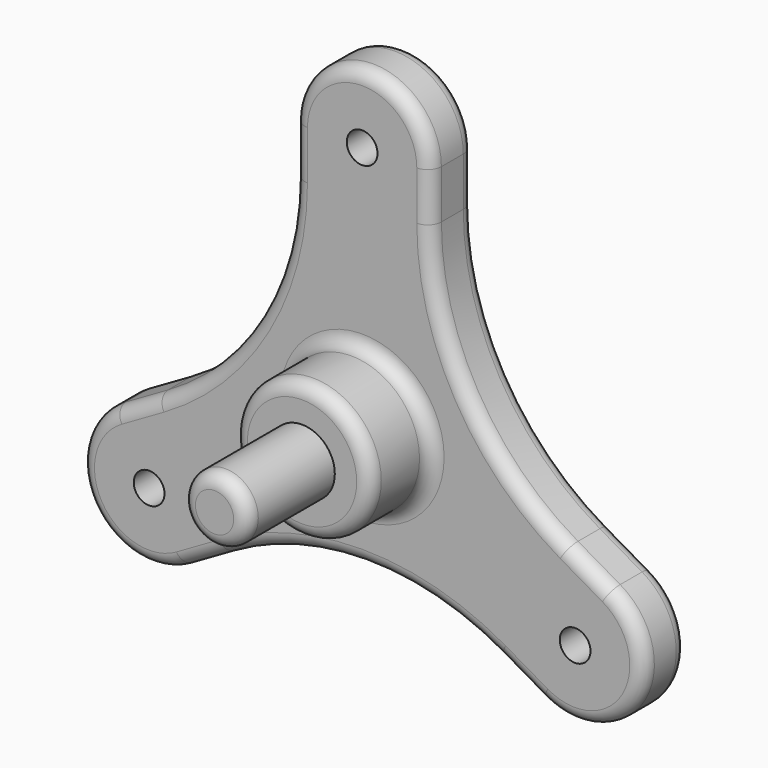
from build123d import *

# Parameters (mm, degrees)
F0_R     = 1.125
F1_DEPTH = 4
F2_R     = 20
F3_R     = 5
F4_DEPTH = 5.5
F5_R     = 1
F6_R     = 2.4
F7_DEPTH = 8
F8_R     = 1


with BuildPart() as f1:
    # F0 (on Front) → F1 (new body)
    with BuildSketch(Plane.XZ):
        with BuildLine():
            Line((5, 2.8867513459), (5, 18))
            ThreePointArc((5, 18), (0, 23), (-5, 18))
            Line((-5, 18), (-5, 2.8867513459))
            Line((-5, 2.8867513459), (-2.5, 4.3301270189))
            Line((-2.5, 4.3301270189), (0, 0))
            Line((0, 0), (2.5, 4.3301270189))
            Line((2.5, 4.3301270189), (5, 2.8867513459))
        make_face()
        with Locations((0, 18)):
            Circle(F0_R, mode=Mode.SUBTRACT)
        with BuildLine():
            Line((18.0884572681, -4.6698729811), (5, 2.8867513459))
            Line((5, 2.8867513459), (5, 0))
            Line((5, 0), (0, 0))
            Line((0, 0), (2.5, -4.3301270189))
            Line((2.5, -4.3301270189), (0, -5.7735026919))
            Line((0, -5.7735026919), (13.0884572681, -13.3301270189))
            ThreePointArc((13.0884572681, -13.3301270189), (19.918584287, -11.5), (18.0884572681, -4.6698729811))
        make_face()
        with Locations((15.5884572681, -9)):
            Circle(F0_R, mode=Mode.SUBTRACT)
        Polygon((5, 0), (5, 2.8867513459), (2.5, 4.3301270189), (0, 0), align=None)
        Polygon((-2.5, 4.3301270189), (-5, 2.8867513459), (-5, 0), (0, 0), align=None)
        with BuildLine():
            Line((-5, 0), (-5, 2.8867513459))
            Line((-5, 2.8867513459), (-18.0884572681, -4.6698729811))
            ThreePointArc((-18.0884572681, -4.6698729811), (-19.918584287, -11.5), (-13.0884572681, -13.3301270189))
            Line((-13.0884572681, -13.3301270189), (0, -5.7735026919))
            Line((0, -5.7735026919), (-2.5, -4.3301270189))
            Line((-2.5, -4.3301270189), (0, 0))
            Line((0, 0), (-5, 0))
        make_face()
        with Locations((-15.5884572681, -9)):
            Circle(F0_R, mode=Mode.SUBTRACT)
        Polygon((2.5, -4.3301270189), (0, 0), (-2.5, -4.3301270189), (0, -5.7735026919), align=None)
    extrude(amount=F1_DEPTH)

    # F2
    f2_edges = [f1.edges().sort_by_distance(p)[0] for p in [
        (-5, -2, 2.886751),
        (5, -2, 2.886751),
        (0, -2, -5.773503),
    ]]
    fillet(f2_edges, radius=F2_R)

    # F3 (on face) → F4 (join)
    with BuildSketch(Plane.XZ.offset(4)):
        Circle(F3_R)
    extrude(amount=F4_DEPTH)

    # F5
    f5_edges = [f1.edges().sort_by_distance(p)[0] for p in [
        (-7.679492, 0, 4.433757),
        (-7.679492, -4, 4.433757),
    ]]
    fillet(f5_edges, radius=F5_R)

    # F6 (on face) → F7 (join)
    with BuildSketch(Plane.XZ.offset(9.5)):
        Circle(F6_R)
    extrude(amount=F7_DEPTH)

    # F8
    f8_edges = [f1.edges().sort_by_distance(p)[0] for p in [
        (-5, -4, 0),
        (-5, -9.5, 0),
        (-2.4, -17.5, 0),
    ]]
    fillet(f8_edges, radius=F8_R)


solid = f1.part
